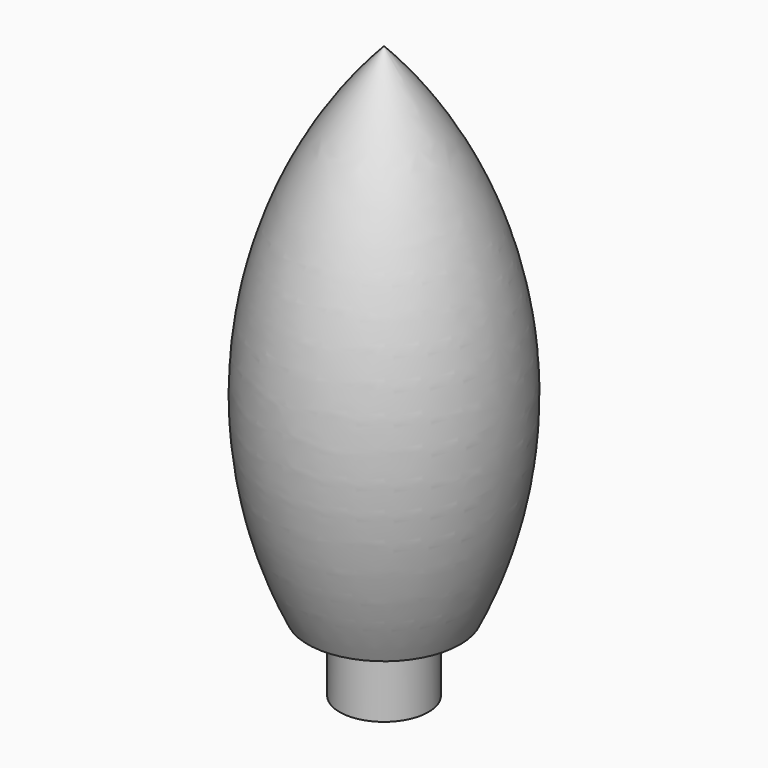
from build123d import *


with BuildPart() as f1:
    # F0 (on Front) → F1 (revolve)
    with BuildSketch(Plane.XZ):
        with BuildLine():
            Line((0, 90), (0, 87.030082))
            ThreePointArc((0, 87.030082), (16.391024, 51.61367), (10.736617, 13))
            Line((10.736617, 13), (5, 13))
            Line((5, 13), (5, 0))
            Line((5, 0), (7, 0))
            Line((7, 0), (7, 11))
            Line((7, 11), (12, 11))
            ThreePointArc((12, 11), (18.300872, 52.368487), (0, 90))
        make_face()
    revolve(axis=Axis((0, 0, 45), (0, 0, 1)))


solid = f1.part
